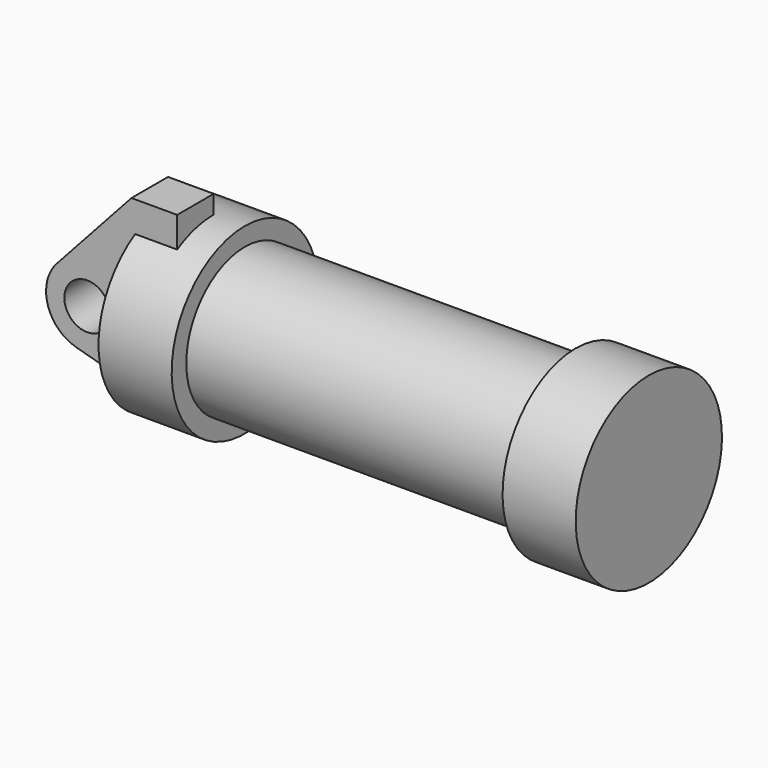
from build123d import *

# Parameters (mm, degrees)
F0_W     = 5.842
F0_H     = 12.7
F0_R     = 3.175
F2_DEPTH = 6.35


with BuildPart() as f1:
    # F0 (on Front) → F1 (revolve)
    with BuildSketch(Plane.XZ):
        Polygon((5.842, 12.7), (5.842, 0), (66.294, 0), (66.294, 12.7), (56.134, 12.7), (56.134, 10.16), (10.16, 10.16), (10.16, 12.7), align=None)
        with Locations((2.921, 6.35)):
            Rectangle(F0_W, F0_H)
    revolve(axis=Axis((33.147, 0, 0), (-1, 0, 0)))

    # F0 (on Front) → F2 (join)
    with BuildSketch(Plane.XZ):
        with BuildLine():
            ThreePointArc((-8.182663, -5.506983), (-3.195791, -4.549339), (-0.9398, 0))
            ThreePointArc((-0.9398, 0), (-4.591961, 5.329721), (-10.88063, 3.847543))
            ThreePointArc((-10.88063, 3.847543), (-12.145978, -1.583727), (-8.182663, -5.506983))
        make_face()
        with Locations((-6.6548, 0)):
            Circle(F0_R, mode=Mode.SUBTRACT)
        with BuildLine():
            Line((-0.9398, 0), (0, 0))
            Line((0, 0), (0, 12.7))
            Line((0, 12.7), (5.842, 12.7))
            Line((5.842, 12.7), (5.842, 15.24))
            Line((5.842, 15.24), (-0.508, 15.24))
            Line((-0.508, 15.24), (-10.88063, 3.847543))
            ThreePointArc((-10.88063, 3.847543), (-4.591961, 5.329721), (-0.9398, 0))
        make_face()
        with BuildLine():
            Line((5.842, 0), (0, 0))
            Line((0, 0), (-0.9398, 0))
            ThreePointArc((-0.9398, 0), (-3.195791, -4.549339), (-8.182663, -5.506983))
            Line((-8.182663, -5.506983), (5.842, -9.398))
            Line((5.842, -9.398), (5.842, 0))
        make_face()
        with Locations((2.921, 6.35)):
            Rectangle(F0_W, F0_H)
    extrude(amount=F2_DEPTH)


solid = f1.part
